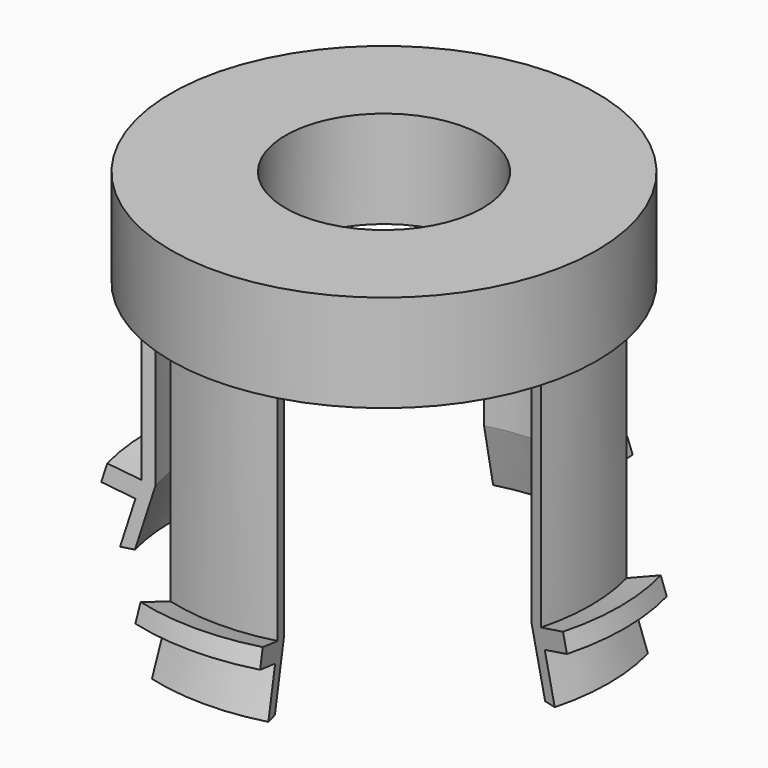
from build123d import *

# Parameters (mm, degrees)
F2_R     = 17.5
F2_R_2   = 8.1
F3_DEPTH = 8
F5_DEPTH = 23


with BuildPart() as f1:
    # F0 (on Front) → F1 (revolve)
    with BuildSketch(Plane.XZ):
        Polygon((-16, 5), (-16, 23), (-17, 23), (-17, 5.142857), (-17.42, 3.702857), (-18.5, 0), (-17.458333, 0), align=None)
        Polygon((-17.42, 3.702857), (-17, 5.142857), (-19.4, 5.842857), (-19.82, 4.402857), align=None)
    revolve(axis=Axis((0, 0, 7.142946), (0, 0, 1)))

    # F2 (on face) → F3 (join)
    with BuildSketch(Plane.XY.offset(23)):
        Circle(F2_R)
        Circle(F2_R_2, mode=Mode.SUBTRACT)
    extrude(amount=F3_DEPTH)

    # F4 (on Top) → F5 (cut, through all)
    with BuildSketch(Plane.XY):
        with BuildLine():
            Line((0, 0), (-21.733331, -5.823429))
            ThreePointArc((-21.733331, -5.823429), (-15.909903, -15.909903), (-5.823429, -21.733331))
            Line((-5.823429, -21.733331), (0, 0))
        make_face()
        with BuildLine():
            Line((-21.733331, 5.823429), (0, 0))
            Line((0, 0), (-5.823429, 21.733331))
            ThreePointArc((-5.823429, 21.733331), (-15.909903, 15.909903), (-21.733331, 5.823429))
        make_face()
        with BuildLine():
            Line((5.823429, 21.733331), (0, 0))
            Line((0, 0), (21.733331, 5.823429))
            ThreePointArc((21.733331, 5.823429), (15.909903, 15.909903), (5.823429, 21.733331))
        make_face()
        with BuildLine():
            Line((21.733331, -5.823429), (0, 0))
            Line((0, 0), (5.823429, -21.733331))
            ThreePointArc((5.823429, -21.733331), (15.909903, -15.909903), (21.733331, -5.823429))
        make_face()
    extrude(amount=F5_DEPTH, mode=Mode.SUBTRACT)


solid = f1.part
